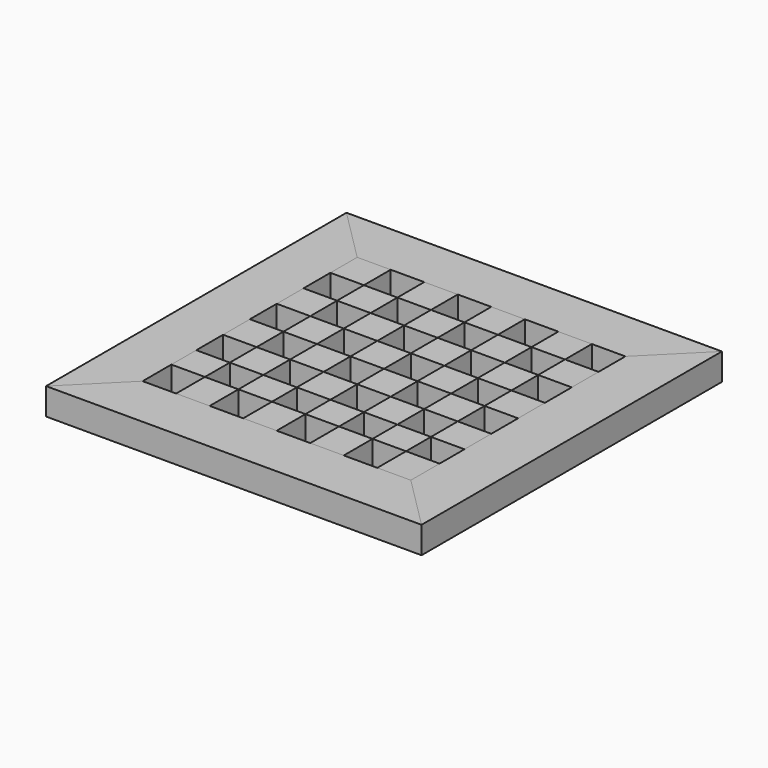
from build123d import *

# Parameters (mm, degrees)
F1_DEPTH = 25.4
F2_DEPTH = 25.4
F0_W     = 31.75
F0_H     = 31.75
F3_DEPTH = 25.4
F0_H_2   = 29.4682552814
F0_H_3   = 34.0317447186


with BuildPart() as f1:
    # F0 (on Top) → F1 (new body)
    with BuildSketch(Plane.XY):
        Polygon((177.8, 177.8), (-177.8, 177.8), (-127, 127), (-95.25, 127), (-63.5, 127), (-31.75, 127), (0, 127), (31.75, 127), (63.5, 127), (95.25, 127), (127, 127), align=None)
    extrude(amount=F1_DEPTH)


with BuildPart() as f1b:
    # F0 (on Top) → F1, piece 2 (new body)
    with BuildSketch(Plane.XY):
        Polygon((-127, -127), (-177.8, -177.8), (177.8, -177.8), (127, -127), (95.25, -127), (63.5, -127), (31.75, -127), (0, -127), (-31.75, -127), (-63.5, -127), (-95.25, -127), align=None)
    extrude(amount=F1_DEPTH)


with BuildPart() as f2:
    # F0 (on Top) → F2 (new body)
    with BuildSketch(Plane.XY):
        Polygon((-177.8, 177.8), (-177.8, -177.8), (-127, -127), (-127, -92.9682552814), (-127, -63.5), (-127, -31.75), (-127, 0), (-127, 31.75), (-127, 63.5), (-127, 95.25), (-127, 127), align=None)
    extrude(amount=F2_DEPTH)


with BuildPart() as f2b:
    # F0 (on Top) → F2, piece 2 (new body)
    with BuildSketch(Plane.XY):
        Polygon((127, -127), (177.8, -177.8), (177.8, 177.8), (127, 127), (127, 95.25), (127, 63.5), (127, 31.75), (127, 0), (127, -31.75), (127, -63.5), (127, -92.9682552814), align=None)
    extrude(amount=F2_DEPTH)


with BuildPart() as f3:
    # F0 (on Top) → F3 (new body)
    with BuildSketch(Plane.XY):
        with Locations((-111.125, 111.125)):
            Rectangle(F0_W, F0_H)
    extrude(amount=F3_DEPTH)


with BuildPart() as f3b:
    # F0 (on Top) → F3, piece 2 (new body)
    with BuildSketch(Plane.XY):
        with Locations((-47.625, 111.125)):
            Rectangle(F0_W, F0_H)
    extrude(amount=F3_DEPTH)


with BuildPart() as f3c:
    # F0 (on Top) → F3, piece 3 (new body)
    with BuildSketch(Plane.XY):
        with Locations((15.875, 111.125)):
            Rectangle(F0_W, F0_H)
    extrude(amount=F3_DEPTH)


with BuildPart() as f3d:
    # F0 (on Top) → F3, piece 4 (new body)
    with BuildSketch(Plane.XY):
        with Locations((79.375, 111.125)):
            Rectangle(F0_W, F0_H)
    extrude(amount=F3_DEPTH)


with BuildPart() as f3e:
    # F0 (on Top) → F3, piece 5 (new body)
    with BuildSketch(Plane.XY):
        with Locations((47.625, 79.375)):
            Rectangle(F0_W, F0_H)
    extrude(amount=F3_DEPTH)


with BuildPart() as f3f:
    # F0 (on Top) → F3, piece 6 (new body)
    with BuildSketch(Plane.XY):
        with Locations((-15.875, 79.375)):
            Rectangle(F0_W, F0_H)
    extrude(amount=F3_DEPTH)


with BuildPart() as f3g:
    # F0 (on Top) → F3, piece 7 (new body)
    with BuildSketch(Plane.XY):
        with Locations((-79.375, 79.375)):
            Rectangle(F0_W, F0_H)
    extrude(amount=F3_DEPTH)


with BuildPart() as f3h:
    # F0 (on Top) → F3, piece 8 (new body)
    with BuildSketch(Plane.XY):
        with Locations((-111.125, 47.625)):
            Rectangle(F0_W, F0_H)
    extrude(amount=F3_DEPTH)


with BuildPart() as f3i:
    # F0 (on Top) → F3, piece 9 (new body)
    with BuildSketch(Plane.XY):
        with Locations((-47.625, 47.625)):
            Rectangle(F0_W, F0_H)
    extrude(amount=F3_DEPTH)


with BuildPart() as f3j:
    # F0 (on Top) → F3, piece 10 (new body)
    with BuildSketch(Plane.XY):
        with Locations((15.875, 47.625)):
            Rectangle(F0_W, F0_H)
    extrude(amount=F3_DEPTH)


with BuildPart() as f3k:
    # F0 (on Top) → F3, piece 11 (new body)
    with BuildSketch(Plane.XY):
        with Locations((79.375, 47.625)):
            Rectangle(F0_W, F0_H)
    extrude(amount=F3_DEPTH)


with BuildPart() as f3l:
    # F0 (on Top) → F3, piece 12 (new body)
    with BuildSketch(Plane.XY):
        with Locations((47.625, 15.875)):
            Rectangle(F0_W, F0_H)
    extrude(amount=F3_DEPTH)


with BuildPart() as f3m:
    # F0 (on Top) → F3, piece 13 (new body)
    with BuildSketch(Plane.XY):
        with Locations((-15.875, 15.875)):
            Rectangle(F0_W, F0_H)
    extrude(amount=F3_DEPTH)


with BuildPart() as f3n:
    # F0 (on Top) → F3, piece 14 (new body)
    with BuildSketch(Plane.XY):
        with Locations((-79.375, 15.875)):
            Rectangle(F0_W, F0_H)
    extrude(amount=F3_DEPTH)


with BuildPart() as f3o:
    # F0 (on Top) → F3, piece 15 (new body)
    with BuildSketch(Plane.XY):
        with Locations((-111.125, -15.875)):
            Rectangle(F0_W, F0_H)
    extrude(amount=F3_DEPTH)


with BuildPart() as f3p:
    # F0 (on Top) → F3, piece 16 (new body)
    with BuildSketch(Plane.XY):
        with Locations((-47.625, -15.875)):
            Rectangle(F0_W, F0_H)
    extrude(amount=F3_DEPTH)


with BuildPart() as f3q:
    # F0 (on Top) → F3, piece 17 (new body)
    with BuildSketch(Plane.XY):
        with Locations((15.875, -15.875)):
            Rectangle(F0_W, F0_H)
    extrude(amount=F3_DEPTH)


with BuildPart() as f3r:
    # F0 (on Top) → F3, piece 18 (new body)
    with BuildSketch(Plane.XY):
        with Locations((79.375, -15.875)):
            Rectangle(F0_W, F0_H)
    extrude(amount=F3_DEPTH)


with BuildPart() as f3s:
    # F0 (on Top) → F3, piece 19 (new body)
    with BuildSketch(Plane.XY):
        with Locations((47.625, -47.625)):
            Rectangle(F0_W, F0_H)
    extrude(amount=F3_DEPTH)


with BuildPart() as f3t:
    # F0 (on Top) → F3, piece 20 (new body)
    with BuildSketch(Plane.XY):
        with Locations((-15.875, -47.625)):
            Rectangle(F0_W, F0_H)
    extrude(amount=F3_DEPTH)


with BuildPart() as f3u:
    # F0 (on Top) → F3, piece 21 (new body)
    with BuildSketch(Plane.XY):
        with Locations((-79.375, -47.625)):
            Rectangle(F0_W, F0_H)
    extrude(amount=F3_DEPTH)


with BuildPart() as f3v:
    # F0 (on Top) → F3, piece 22 (new body)
    with BuildSketch(Plane.XY):
        with Locations((-111.125, -78.2341276407)):
            Rectangle(F0_W, F0_H_2)
    extrude(amount=F3_DEPTH)


with BuildPart() as f3w:
    # F0 (on Top) → F3, piece 23 (new body)
    with BuildSketch(Plane.XY):
        with Locations((-47.625, -78.2341276407)):
            Rectangle(F0_W, F0_H_2)
    extrude(amount=F3_DEPTH)


with BuildPart() as f3x:
    # F0 (on Top) → F3, piece 24 (new body)
    with BuildSketch(Plane.XY):
        with Locations((15.875, -78.2341276407)):
            Rectangle(F0_W, F0_H_2)
    extrude(amount=F3_DEPTH)


with BuildPart() as f3y:
    # F0 (on Top) → F3, piece 25 (new body)
    with BuildSketch(Plane.XY):
        with Locations((79.375, -78.2341276407)):
            Rectangle(F0_W, F0_H_2)
    extrude(amount=F3_DEPTH)


with BuildPart() as f3z:
    # F0 (on Top) → F3, piece 26 (new body)
    with BuildSketch(Plane.XY):
        with Locations((47.625, -109.9841276407)):
            Rectangle(F0_W, F0_H_3)
    extrude(amount=F3_DEPTH)


with BuildPart() as f3ba:
    # F0 (on Top) → F3, piece 27 (new body)
    with BuildSketch(Plane.XY):
        with Locations((-15.875, -109.9841276407)):
            Rectangle(F0_W, F0_H_3)
    extrude(amount=F3_DEPTH)


with BuildPart() as f3bb:
    # F0 (on Top) → F3, piece 28 (new body)
    with BuildSketch(Plane.XY):
        with Locations((-79.375, -109.9841276407)):
            Rectangle(F0_W, F0_H_3)
    extrude(amount=F3_DEPTH)


with BuildPart() as f3bc:
    # F0 (on Top) → F3, piece 29 (new body)
    with BuildSketch(Plane.XY):
        with Locations((111.125, 79.375)):
            Rectangle(F0_W, F0_H)
    extrude(amount=F3_DEPTH)


with BuildPart() as f3bd:
    # F0 (on Top) → F3, piece 30 (new body)
    with BuildSketch(Plane.XY):
        with Locations((111.125, 15.875)):
            Rectangle(F0_W, F0_H)
    extrude(amount=F3_DEPTH)


with BuildPart() as f3be:
    # F0 (on Top) → F3, piece 31 (new body)
    with BuildSketch(Plane.XY):
        with Locations((111.125, -47.625)):
            Rectangle(F0_W, F0_H)
    extrude(amount=F3_DEPTH)


with BuildPart() as f3bf:
    # F0 (on Top) → F3, piece 32 (new body)
    with BuildSketch(Plane.XY):
        with Locations((111.125, -109.9841276407)):
            Rectangle(F0_W, F0_H_3)
    extrude(amount=F3_DEPTH)


solid = Compound([f1.part, f1b.part, f2.part, f2b.part, f3.part, f3b.part, f3c.part, f3d.part, f3e.part, f3f.part, f3g.part, f3h.part, f3i.part, f3j.part, f3k.part, f3l.part, f3m.part, f3n.part, f3o.part, f3p.part, f3q.part, f3r.part, f3s.part, f3t.part, f3u.part, f3v.part, f3w.part, f3x.part, f3y.part, f3z.part, f3ba.part, f3bb.part, f3bc.part, f3bd.part, f3be.part, f3bf.part])
